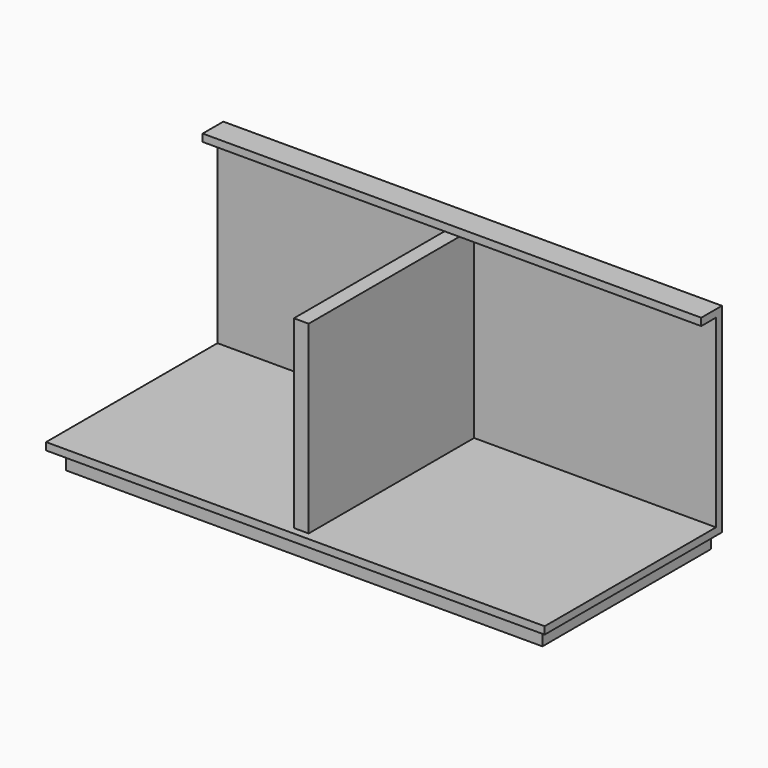
from build123d import *

# Parameters (mm, degrees)
F0_W     = 20
F0_H     = 560
F1_DEPTH = 500
F2_W     = 1350
F2_H     = 70
F3_DEPTH = 20
F4_W     = 1350
F4_H     = 600
F5_DEPTH = 20
F6_R     = 25
F7_DEPTH = 55
F9_DEPTH = 50


with BuildPart() as f1:
    # F0 (on Top) → F1 (new body)
    with BuildSketch(Plane.XY):
        Polygon((-675, 280), (-655, 280), (-20, 280), (0, 280), (20, 280), (655, 280), (675, 280), (675, 300), (-675, 300), align=None)
        with Locations((10, 0)):
            Rectangle(F0_W, F0_H)
        with Locations((-10, 0)):
            Rectangle(F0_W, F0_H)
    extrude(amount=F1_DEPTH)

    # F2 (on face) → F3 (join)
    with BuildSketch(Plane.XY.offset(500)):
        with Locations((0, 265)):
            Rectangle(F2_W, F2_H)
    extrude(amount=F3_DEPTH)

    # F4 (on face) → F5 (join)
    with BuildSketch(Plane(origin=(0, 0, 0), x_dir=(1, 0, 0), z_dir=(0, 0, -1))):
        Rectangle(F4_W, F4_H)
    extrude(amount=F5_DEPTH)

    # F6 (on face) → F7 (join)
    with BuildSketch(Plane(origin=(0, 0, -20), x_dir=(1, 0, 0), z_dir=(0, 0, -1))):
        with Locations((-502.596352, 223.376156)):
            Circle(F6_R)
        with Locations((-502.596352, -223.376156)):
            Circle(F6_R)
        with Locations((502.596352, -223.376156)):
            Circle(F6_R)
        with Locations((502.596352, 223.376156)):
            Circle(F6_R)
    extrude(amount=F7_DEPTH)

    # F8 (on face) → F9 (join)
    with BuildSketch(Plane(origin=(0, 0, -20), x_dir=(1, 0, 0), z_dir=(0, 0, -1))):
        Polygon((645, 270), (-645, 270), (-645, -270), (-645, -300), (-625, -300), (-625, -250), (-625, 250), (625, 250), (625, -250), (625, -300), (645, -300), (645, -270), align=None)
    extrude(amount=F9_DEPTH)


solid = f1.part
